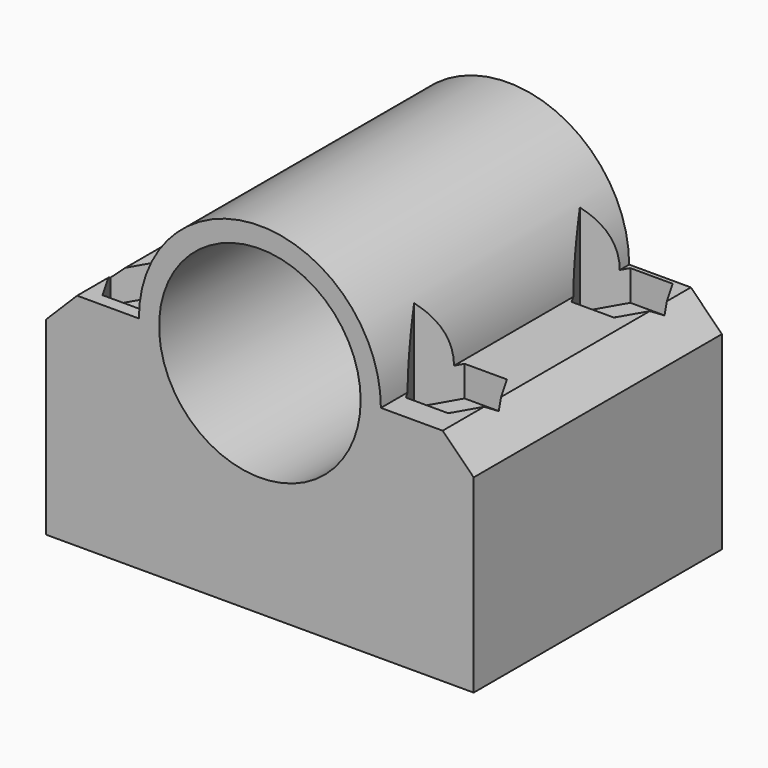
from build123d import *

# Parameters (mm, degrees)
F0_R          = 8.25
F1_DEPTH      = 25.4
F2_R          = 1.5
F3_DEPTH      = 18.051
F4_SIZE       = 2.54
F5_R          = 1.5
F6_DEPTH      = 2.5
F6_DEPTH_BACK = 25.4


with BuildPart() as f1:
    # F0 (on Front) → F1 (new body)
    with BuildSketch(Plane.XZ):
        with BuildLine():
            Line((-13.4290065467, 14.4366604356), (-21.0230065467, 14.4366604356))
            ThreePointArc((-21.0230065467, 14.4366604356), (-30.9290065467, 24.3426604356), (-40.8350065467, 14.4366604356))
            Line((-40.8350065467, 14.4366604356), (-48.4290065467, 14.4366604356))
            Line((-48.4290065467, 14.4366604356), (-48.4290065467, -3.6133395644))
            Line((-48.4290065467, -3.6133395644), (-13.4290065467, -3.6133395644))
            Line((-13.4290065467, -3.6133395644), (-13.4290065467, 14.4366604356))
        make_face()
        with Locations((-30.9290065467, 14.4366604356)):
            Circle(F0_R, mode=Mode.SUBTRACT)
    extrude(amount=F1_DEPTH)

    # F2 (on face) → F3 (cut, through all)
    with BuildSketch(Plane.XY.offset(14.4366604356)):
        with Locations((-42.9290065467, -21.332904214)):
            Circle(F2_R)
        with Locations((-42.9290065467, -3.332904214)):
            Circle(F2_R)
        with Locations((-18.9290065467, -3.332904214)):
            Circle(F2_R)
        with Locations((-18.9290065467, -20.2919691801)):
            Circle(F2_R)
    extrude(amount=-F3_DEPTH, mode=Mode.SUBTRACT)

    # F4
    f4_edges = [f1.edges().sort_by_distance(p)[0] for p in [
        (-48.429007, -12.7, 14.43666),
        (-13.429007, -12.7, 14.43666),
    ]]
    chamfer(f4_edges, length=F4_SIZE)

    # F5 (on face) → F6 (cut, two sides)
    with BuildSketch(Plane.XY.offset(14.4366604356)) as f6_sk:
        Polygon((-44.6610573543, -6.332904214), (-41.1969557392, -6.332904214), (-39.4649049316, -3.332904214), (-41.1969557392, -0.332904214), (-44.6610573543, -0.332904214), (-46.3931081619, -3.332904214), align=None)
        with Locations((-42.9290065467, -3.332904214)):
            Circle(F5_R, mode=Mode.SUBTRACT)
        Polygon((-44.6610573543, -24.332904214), (-41.1969557392, -24.332904214), (-39.4649049316, -21.332904214), (-41.1969557392, -18.332904214), (-44.6610573543, -18.332904214), (-46.3931081619, -21.332904214), align=None)
        with Locations((-42.9290065467, -21.332904214)):
            Circle(F5_R, mode=Mode.SUBTRACT)
        Polygon((-20.6610573543, -6.332904214), (-17.1969557392, -6.332904214), (-15.4649049316, -3.332904214), (-17.1969557392, -0.332904214), (-20.6610573543, -0.332904214), (-22.3931081619, -3.332904214), align=None)
        with Locations((-18.9290065467, -3.332904214)):
            Circle(F5_R, mode=Mode.SUBTRACT)
        Polygon((-20.6610573543, -23.2919691801), (-17.1969557392, -23.2919691801), (-15.4649049316, -20.2919691801), (-17.1969557392, -17.2919691801), (-20.6610573543, -17.2919691801), (-22.3931081619, -20.2919691801), align=None)
        with Locations((-18.9290065467, -20.2919691801)):
            Circle(F5_R, mode=Mode.SUBTRACT)
    extrude(amount=-F6_DEPTH, mode=Mode.SUBTRACT)
    extrude(f6_sk.sketch, amount=F6_DEPTH_BACK, mode=Mode.SUBTRACT)


solid = f1.part
